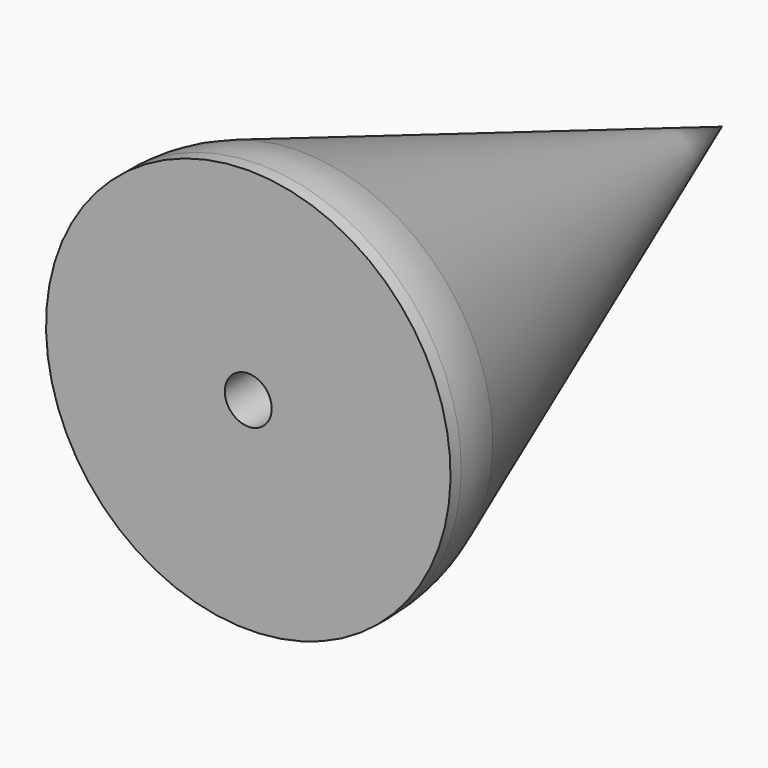
from build123d import *

# Parameters (mm, degrees)
F2_R     = 2.375
F3_DEPTH = 10


with BuildPart() as f1:
    # F0 (on Right) → F1 (revolve)
    with BuildSketch(Plane.YZ):
        with BuildLine():
            Line((0, 20.5), (0, 0))
            Line((0, 0), (60, 0))
            Line((60, 0), (6.497183, 19.585853))
            ThreePointArc((6.497183, 19.585853), (3.959171, 20.269695), (1.340754, 20.5))
            Line((1.340754, 20.5), (0, 20.5))
        make_face()
    revolve(axis=Axis((0, 30, 0), (0, -1, 0)))

    # F2 (on Front) → F3 (cut)
    with BuildSketch(Plane.XZ):
        Circle(F2_R)
    extrude(amount=-F3_DEPTH, mode=Mode.SUBTRACT)


solid = f1.part
